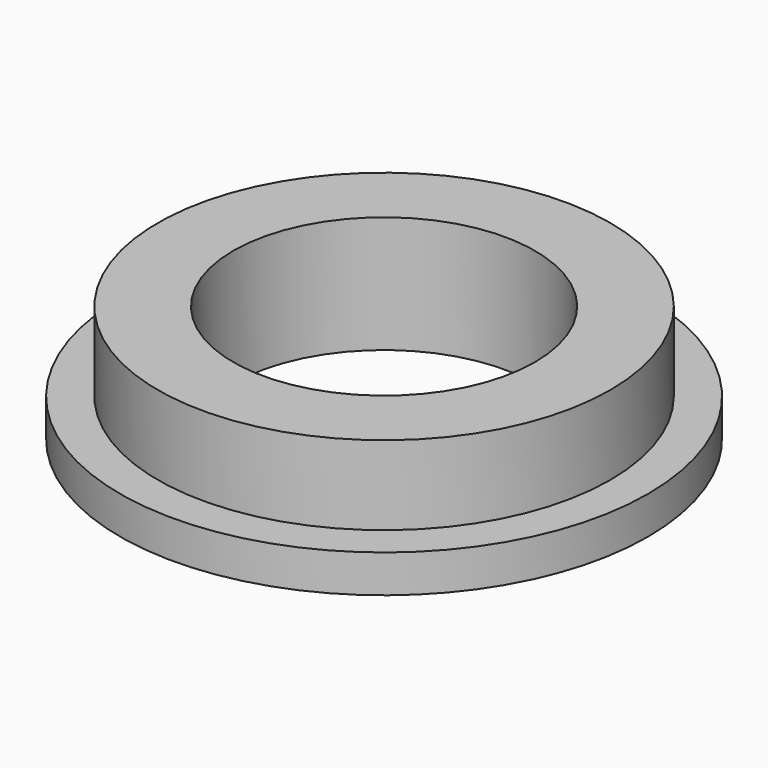
from build123d import *

# Parameters (mm, degrees)
F0_R     = 30
F1_DEPTH = 15.5
F2_R     = 35
F4_DEPTH = 5
F3_R     = 20
F5_DEPTH = 25.4
F6_D     = 40


with BuildPart() as f1:
    # F0 (on Top) → F1 (new body)
    with BuildSketch(Plane.XY):
        Circle(F0_R)
    extrude(amount=F1_DEPTH)

    # F2 (on Top) → F4 (join)
    with BuildSketch(Plane.XY):
        Circle(F2_R)
    extrude(amount=F4_DEPTH)

    # F3 (on Top) → F5 (join)
    with BuildSketch(Plane.XY):
        Circle(F3_R)
    extrude(amount=F5_DEPTH)

    # F6 (through all)
    with Locations(Plane(origin=(0, 0, 0), x_dir=(1, 0, 0), z_dir=(0, 0, -1))):
        with Locations((0, 0)):
            Hole(F6_D / 2)


solid = f1.part
